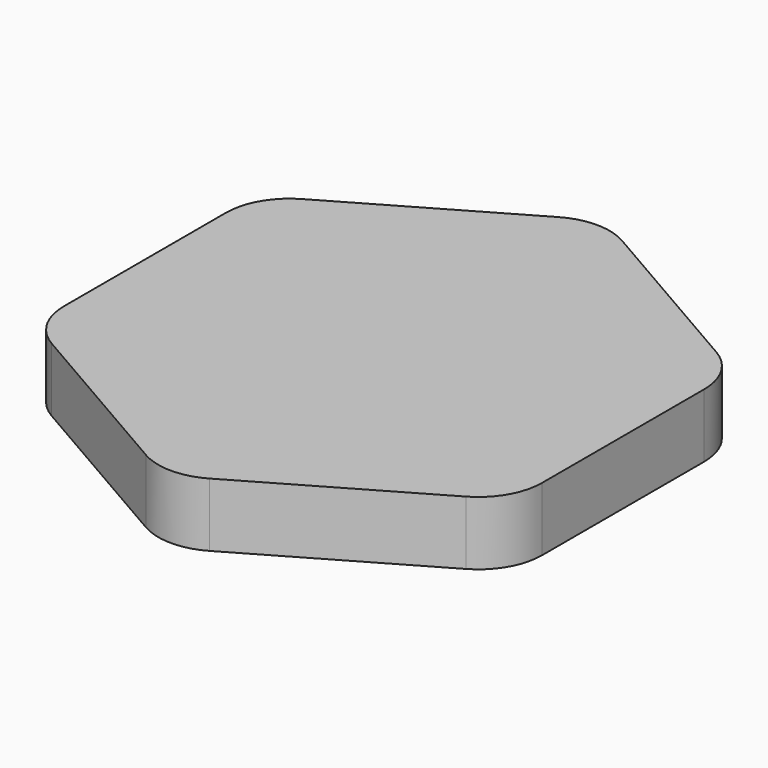
from build123d import *

# Parameters (mm, degrees)
F1_DEPTH = 7.5


with BuildPart() as f1:
    # F0 (on Top) → F1 (new body, symmetric)
    with BuildSketch(Plane.XY):
        with BuildLine():
            Line((-48.77033, -36.817817), (-7.5, -60.645254))
            ThreePointArc((-7.5, -60.645254), (0, -62.654873), (7.5, -60.645254))
            Line((7.5, -60.645254), (48.77033, -36.817817))
            ThreePointArc((48.77033, -36.817817), (54.260712, -31.327436), (56.27033, -23.827436))
            Line((56.27033, -23.827436), (56.27033, 23.827436))
            ThreePointArc((56.27033, 23.827436), (54.260712, 31.327436), (48.77033, 36.817817))
            Line((48.77033, 36.817817), (7.5, 60.645254))
            ThreePointArc((7.5, 60.645254), (0, 62.654873), (-7.5, 60.645254))
            Line((-7.5, 60.645254), (-48.77033, 36.817817))
            ThreePointArc((-48.77033, 36.817817), (-54.260712, 31.327436), (-56.27033, 23.827436))
            Line((-56.27033, 23.827436), (-56.27033, -23.827436))
            ThreePointArc((-56.27033, -23.827436), (-54.260712, -31.327436), (-48.77033, -36.817817))
        make_face()
        with BuildLine():
            Line((-48.77033, -36.817817), (-7.5, -60.645254))
            ThreePointArc((-7.5, -60.645254), (0, -62.654873), (7.5, -60.645254))
            Line((7.5, -60.645254), (48.77033, -36.817817))
            ThreePointArc((48.77033, -36.817817), (54.260712, -31.327436), (56.27033, -23.827436))
            Line((56.27033, -23.827436), (56.27033, 23.827436))
            ThreePointArc((56.27033, 23.827436), (54.260712, 31.327436), (48.77033, 36.817817))
            Line((48.77033, 36.817817), (7.5, 60.645254))
            ThreePointArc((7.5, 60.645254), (0, 62.654873), (-7.5, 60.645254))
            Line((-7.5, 60.645254), (-48.77033, 36.817817))
            ThreePointArc((-48.77033, 36.817817), (-54.260712, 31.327436), (-56.27033, 23.827436))
            Line((-56.27033, 23.827436), (-56.27033, -23.827436))
            ThreePointArc((-56.27033, -23.827436), (-54.260712, -31.327436), (-48.77033, -36.817817))
        make_face()
    extrude(amount=F1_DEPTH, both=True)


solid = f1.part
